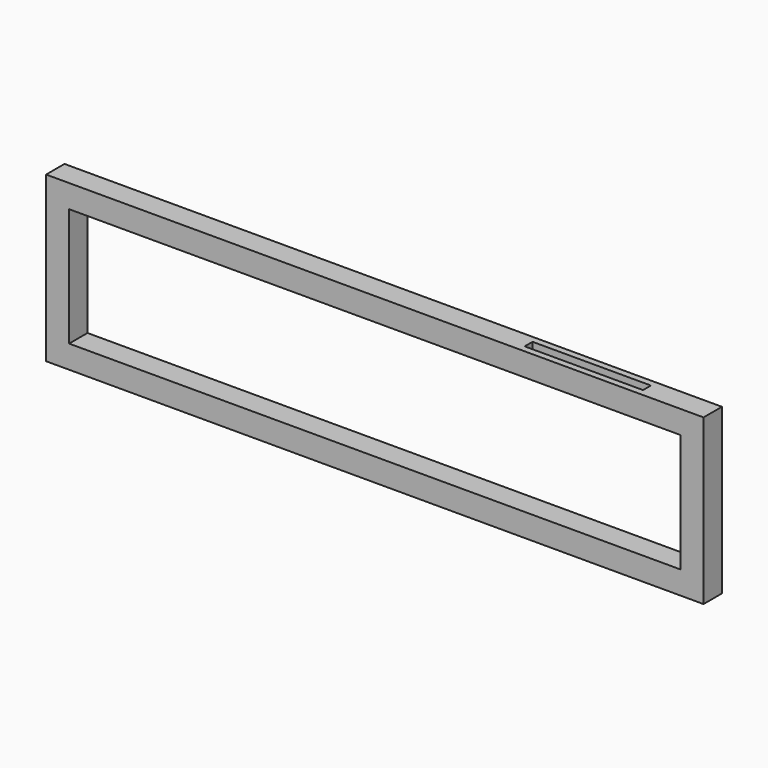
from build123d import *

# Parameters (mm, degrees)
F0_W          = 70
F0_H          = 70
F0_W_2        = 1860
F0_H_2        = 360
F1_DEPTH      = 70
F2_W          = 360
F2_H          = 30
F3_DEPTH      = 25
F3_DEPTH_BACK = 25


with BuildPart() as f1:
    # F0 (on Front) → F1 (new body)
    with BuildSketch(Plane.XZ):
        with Locations((35, -35)):
            Rectangle(F0_W, F0_H)
        with Locations((1000, -35)):
            Rectangle(F0_W_2, F0_H)
        with Locations((35, -250)):
            Rectangle(F0_W, F0_H_2)
        with Locations((1965, -35)):
            Rectangle(F0_W, F0_H)
        with Locations((35, -465)):
            Rectangle(F0_W, F0_H)
        with Locations((1965, -250)):
            Rectangle(F0_W, F0_H_2)
        with Locations((1000, -465)):
            Rectangle(F0_W_2, F0_H)
        with Locations((1965, -465)):
            Rectangle(F0_W, F0_H)
    extrude(amount=F1_DEPTH)

    # F2 (on face) → F3 (cut, two sides)
    with BuildSketch(Plane.XY) as f3_sk:
        with Locations((1620, -35)):
            Rectangle(F2_W, F2_H)
    extrude(amount=F3_DEPTH, mode=Mode.SUBTRACT)
    extrude(f3_sk.sketch, amount=-F3_DEPTH_BACK, mode=Mode.SUBTRACT)


solid = f1.part
